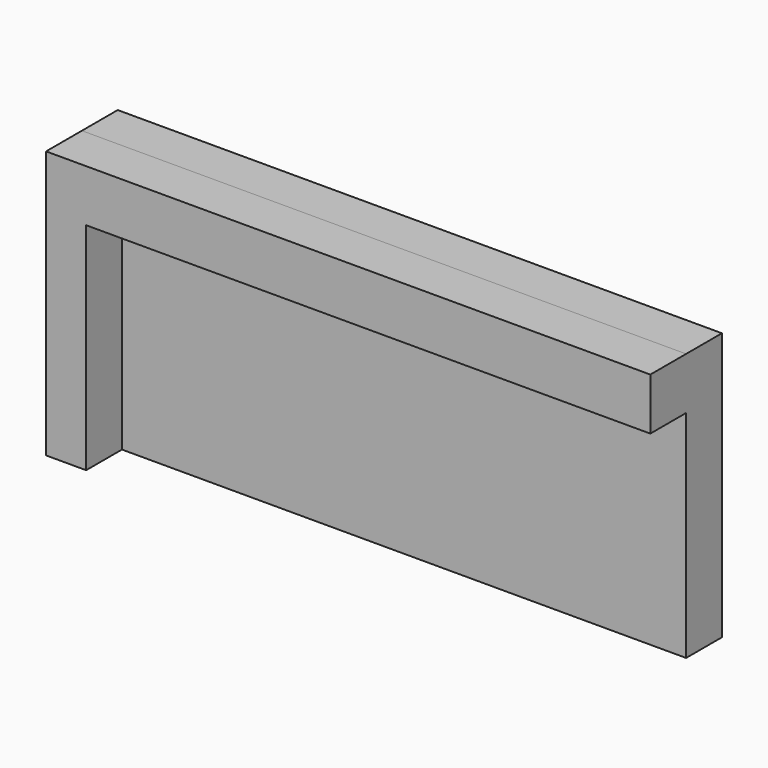
from build123d import *

# Parameters (mm, degrees)
F0_W     = 85.725002
F0_H     = 37.977095
F1_DEPTH = 6.35
F3_DEPTH = 6.35


with BuildPart() as f1:
    # F0 (on Front) → F1 (new body)
    with BuildSketch(Plane.XZ):
        with Locations((42.862501, 20.463387)):
            Rectangle(F0_W, F0_H)
    extrude(amount=F1_DEPTH)

    # F2 (on face) → F3 (join)
    with BuildSketch(Plane.XZ.offset(6.35)):
        Polygon((0, 39.451934), (0, 1.474839), (5.684275, 1.474839), (5.684275, 32.077745), (85.725002, 32.077745), (85.725002, 39.451934), align=None)
    extrude(amount=F3_DEPTH)


solid = f1.part
